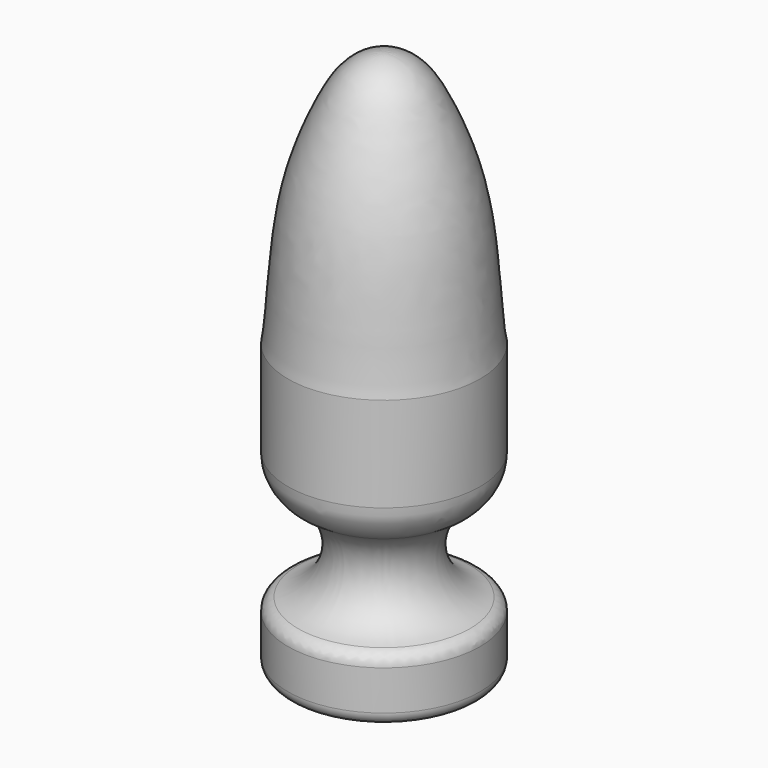
from build123d import *

# Parameters (mm, degrees)
F2_R = 2
F3_R = 7


with BuildPart() as f1:
    # F0 (on Front) → F1 (revolve)
    with BuildSketch(Plane.XZ):
        with BuildLine():
            Line((15, 0), (15, 20))
            add(Edge.make_bspline(
                [(15, 20), (14.5080885538, 22.063984506), (13.9999463782, 37.4930197538), (10.6078177215, 48.1757262572), (7.7037410613, 54.3763197541), (5.6345020381, 57.6882536536), (2.5841033515, 60), (0, 60)],
                knots=[0, 0, 0, 0, 0.2796626362, 0.525434394, 0.6977638983, 0.8311479045, 1, 1, 1, 1], degree=3))
            Line((0, 60), (0, -25))
            Line((0, -25), (15, -25))
            Line((15, -25), (15, -15))
            ThreePointArc((15, -15), (7.5, -7.5), (15, 0))
        make_face()
    revolve(axis=Axis((0, 0, 9.3989223242), (0, 0, -1)))

    # F2
    f2_edges = [f1.edges().sort_by_distance(p)[0] for p in [
        (-15, 0, -15),
        (-15, 0, -25),
    ]]
    fillet(f2_edges, radius=F2_R)

    # F3
    f3_edges = [f1.edges().sort_by_distance(p)[0] for p in [
        (-15, 0, 0),
    ]]
    fillet(f3_edges, radius=F3_R)


solid = f1.part
